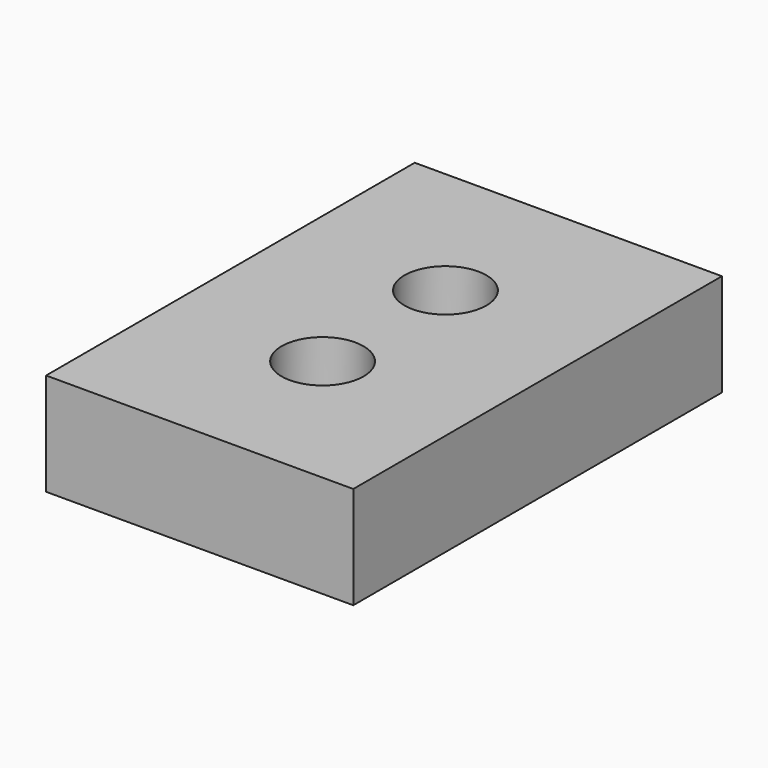
from build123d import *

# Parameters (mm, degrees)
SKETCH_W         = 30
SKETCH_H         = 45
SKETCH_R         = 4
EXTRUDE_DEPTH    = 10
EXTRUDE001_DEPTH = 10


with BuildPart() as extrude_body:
    # Sketch → Extrude (new body)
    with BuildSketch(Plane.XY):
        with Locations((0, -7.5)):
            Rectangle(SKETCH_W, SKETCH_H)
        Circle(SKETCH_R, mode=Mode.SUBTRACT)
        with Locations((0, -15)):
            Circle(SKETCH_R, mode=Mode.SUBTRACT)
    extrude(amount=EXTRUDE_DEPTH)


with BuildPart() as extrude001:
    # Sketch → Extrude001 (new body)
    with BuildSketch(Plane.XY):
        with Locations((0, -7.5)):
            Rectangle(SKETCH_W, SKETCH_H)
        Circle(SKETCH_R, mode=Mode.SUBTRACT)
        with Locations((0, -15)):
            Circle(SKETCH_R, mode=Mode.SUBTRACT)
    extrude(amount=EXTRUDE001_DEPTH)


solid = Compound([extrude_body.part, extrude001.part])
